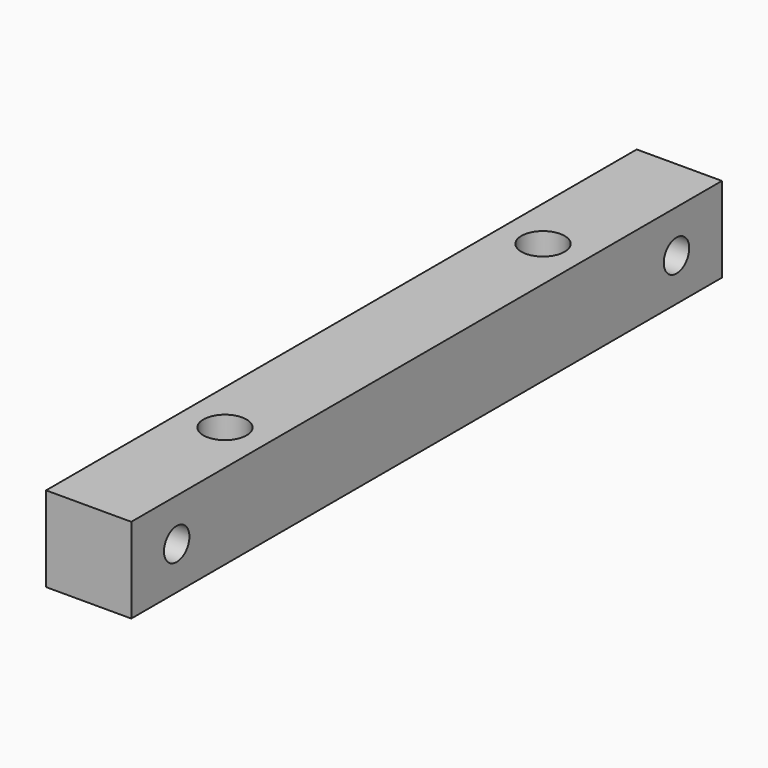
from build123d import *

# Parameters (mm, degrees)
F0_W     = 9.525
F0_H     = 9.525
F1_DEPTH = 41.275
F2_R     = 1.778
F3_DEPTH = 9.526
F4_R     = 1.778
F5_DEPTH = 9.526
F6_R     = 2.413
F7_DEPTH = 9.526
F8_R     = 2.413
F9_DEPTH = 9.526


with BuildPart() as f1:
    # F0 (on Front) → F1 (new body, symmetric)
    with BuildSketch(Plane.XZ):
        Rectangle(F0_W, F0_H)
    extrude(amount=F1_DEPTH, both=True)

    # F2 (on face) → F3 (cut, through all)
    with BuildSketch(Plane.YZ.offset(4.7625)):
        with Locations((-34.925, 0)):
            Circle(F2_R)
    extrude(amount=-F3_DEPTH, mode=Mode.SUBTRACT)

    # F4 (on face) → F5 (cut, through all)
    with BuildSketch(Plane.YZ.offset(4.7625)):
        with Locations((34.925, 0)):
            Circle(F4_R)
    extrude(amount=-F5_DEPTH, mode=Mode.SUBTRACT)

    # F6 (on face) → F7 (cut, through all)
    with BuildSketch(Plane.XY.offset(4.7625)):
        with Locations((0, -22.225)):
            Circle(F6_R)
    extrude(amount=-F7_DEPTH, mode=Mode.SUBTRACT)

    # F8 (on face) → F9 (cut, through all)
    with BuildSketch(Plane.XY.offset(4.7625)):
        with Locations((0, 22.225)):
            Circle(F8_R)
    extrude(amount=-F9_DEPTH, mode=Mode.SUBTRACT)


solid = f1.part
